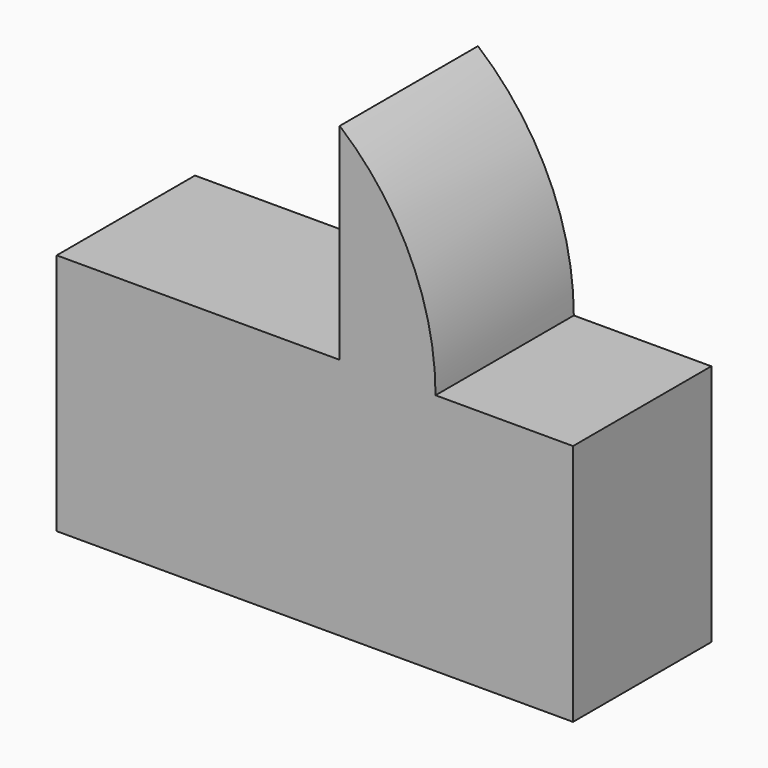
from build123d import *

# Parameters (mm, degrees)
F1_DEPTH = 25.4


with BuildPart() as f1:
    # F0 (on Front) → F1 (new body)
    with BuildSketch(Plane.XZ):
        Polygon((0, 12.084707), (-41.593887, 12.084707), (-41.593887, -23.607345), (34.286853, -23.607345), (34.286853, 12.084707), (14.083115, 12.084707), align=None)
        with BuildLine():
            Line((0, 42.359576), (0, 12.084707))
            Line((0, 12.084707), (14.083115, 12.084707))
            ThreePointArc((14.083115, 12.084707), (10.390056, 28.779779), (0, 42.359576))
        make_face()
    extrude(amount=F1_DEPTH)


solid = f1.part
